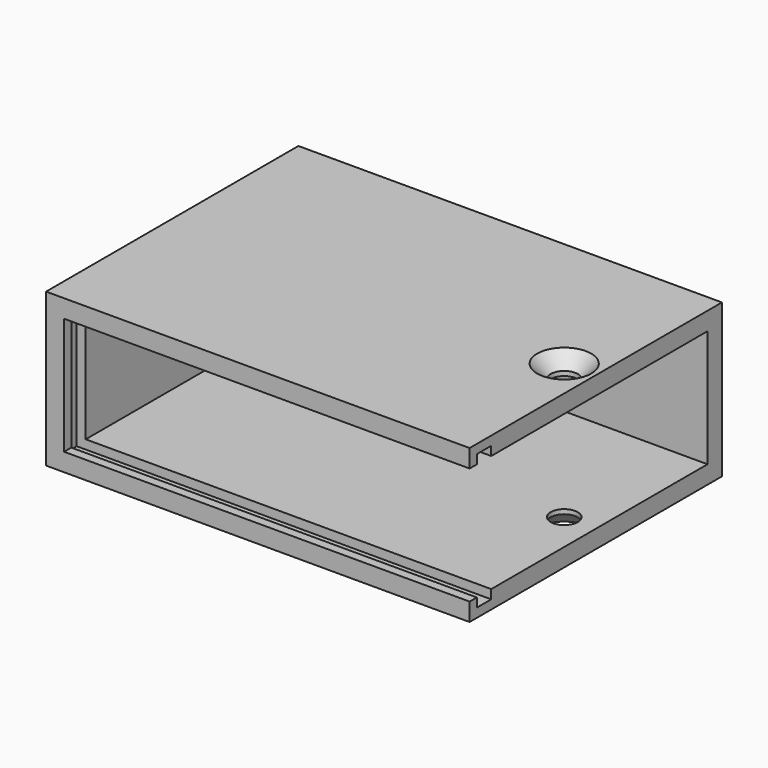
from build123d import *

# Parameters (mm, degrees)
F0_W           = 35
F0_H           = 17
F1_DEPTH       = 47
F2_W           = 30
F2_H           = 13
F2_W_2         = 1
F3_DEPTH       = 45
F2_W_3         = 2
F2_H_2         = 1
F4_DEPTH       = 46
F6_D           = 3
F6_DEPTH       = 3
F6_CSINK_D     = 6
F6_CSINK_ANGLE = 90
F6_TIP         = 0.9012909285
F8_D           = 3
F8_DEPTH       = 3
F8_CSINK_D     = 6
F8_CSINK_ANGLE = 90
F8_TIP         = 0.9012909285


with BuildPart() as f1:
    # F0 (on Right) → F1 (new body)
    with BuildSketch(Plane.YZ):
        Rectangle(F0_W, F0_H)
    extrude(amount=F1_DEPTH)

    # F2 (on face) → F3 (cut)
    with BuildSketch(Plane.YZ.offset(47)):
        with Locations((0.5, 0)):
            Rectangle(F2_W, F2_H)
        with Locations((-17, 0)):
            Rectangle(F2_W_2, F2_H)
    extrude(amount=-F3_DEPTH, mode=Mode.SUBTRACT)

    # F2 (on face) → F4 (cut)
    with BuildSketch(Plane.YZ.offset(47)):
        with Locations((-15.5, 0)):
            Rectangle(F2_W_3, F2_H)
        with Locations((-15.5, 7)):
            Rectangle(F2_W_3, F2_H_2)
        with Locations((-15.5, -7)):
            Rectangle(F2_W_3, F2_H_2)
    extrude(amount=-F4_DEPTH, mode=Mode.SUBTRACT)

    # F6
    with Locations(Plane.XY.offset(8.5)):
        with Locations((43.5, 0)):
            CounterSinkHole(F6_D / 2, F6_CSINK_D / 2, depth=F6_DEPTH, counter_sink_angle=F6_CSINK_ANGLE)
            with Locations((0, 0, -(F6_DEPTH + F6_TIP / 2))):  # 118° drill point
                Cone(0, F6_D / 2, F6_TIP, mode=Mode.SUBTRACT)

    # F8
    with Locations(Plane(origin=(0, 0, -8.5), x_dir=(1, 0, 0), z_dir=(0, 0, -1))):
        with Locations((43.5, 0)):
            CounterSinkHole(F8_D / 2, F8_CSINK_D / 2, depth=F8_DEPTH, counter_sink_angle=F8_CSINK_ANGLE)
            with Locations((0, 0, -(F8_DEPTH + F8_TIP / 2))):  # 118° drill point
                Cone(0, F8_D / 2, F8_TIP, mode=Mode.SUBTRACT)


solid = f1.part
